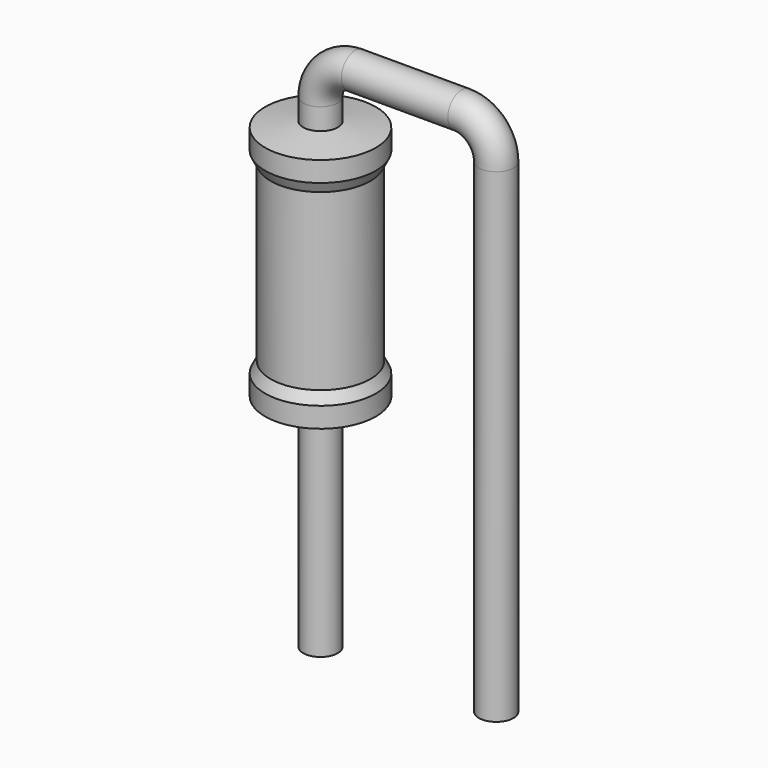
from build123d import *

# Parameters (mm, degrees)
SKETCH_R = 0.25


with BuildPart() as sweep_body:
    # Sweep: sweep along a path in Sketch001
    with BuildLine(Plane.XZ) as sweep_path:
        Line((0, -3), (0, 4))
        ThreePointArc((0, 4), (0.14645, 4.353556), (0.500009, 4.5))
        Line((0.500009, 4.5), (2.04, 4.5))
        ThreePointArc((2.04, 4.5), (2.393553, 4.353553), (2.54, 4))
        Line((2.54, 4), (2.54, -3))
    # Sketch → Sweep (sweep)
    with BuildSketch(Plane.XY.offset(-2)):
        Circle(SKETCH_R)
    sweep(path=sweep_path.line)


with BuildPart() as revolution:
    # Sketch002 → Revolution (revolve)
    with BuildSketch(Plane.XZ):
        Polygon((0, 0.1), (0, 3.7), (0.1875, 3.7), (0.8, 3.61), (0.8, 3.3175), (0.72, 3.16), (0.72, 0.64), (0.8, 0.4825), (0.8, 0.19), (0.1875, 0.1), align=None)
    revolve(axis=Axis((0, 0, 0), (0, 0, 1)))


solid = Compound([sweep_body.part, revolution.part])
